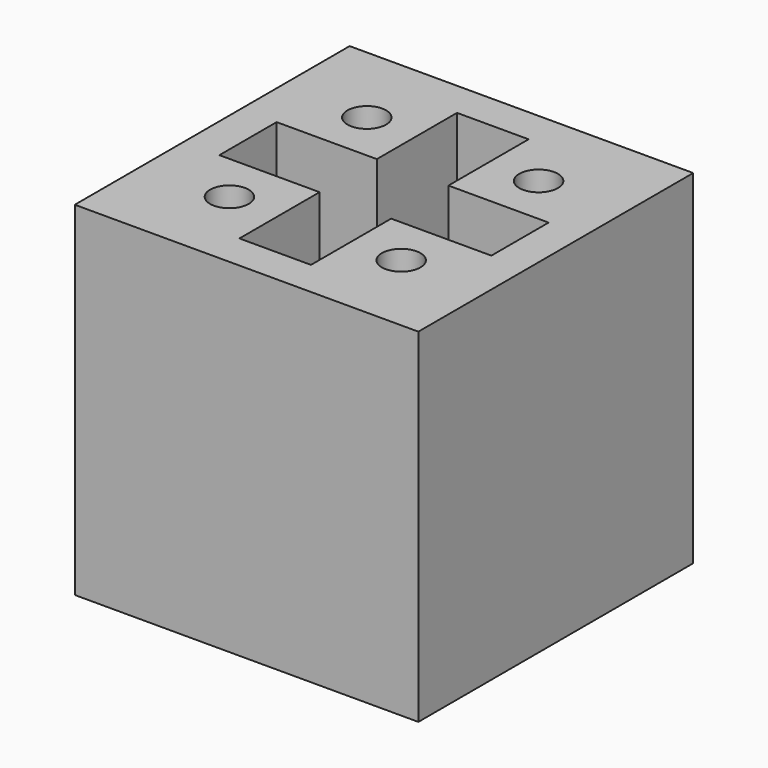
from build123d import *

# Parameters (mm, degrees)
F0_W     = 24
F0_H     = 24
F0_W_2   = 7
F0_H_2   = 7
F0_R     = 1.35
F1_DEPTH = 24
F2_T     = -2.5
F3_DEPTH = 24
F4_DEPTH = 13


with BuildPart() as f1:
    # F0 (on Top) → F1 (new body)
    with BuildSketch(Plane.XY):
        Rectangle(F0_W, F0_H)
        with Locations((-6, -6)):
            Rectangle(F0_W_2, F0_H_2, mode=Mode.SUBTRACT)
        with Locations((6, -6)):
            Rectangle(F0_W_2, F0_H_2, mode=Mode.SUBTRACT)
        with Locations((-6, 6)):
            Rectangle(F0_W_2, F0_H_2, mode=Mode.SUBTRACT)
        with Locations((6, 6)):
            Rectangle(F0_W_2, F0_H_2, mode=Mode.SUBTRACT)
        with Locations((-6, 6)):
            Rectangle(F0_W_2, F0_H_2)
        with Locations((-6, 6)):
            Circle(F0_R, mode=Mode.SUBTRACT)
        with Locations((-6, 6)):
            Circle(F0_R)
        with Locations((6, 6)):
            Rectangle(F0_W_2, F0_H_2)
        with Locations((6, 6)):
            Circle(F0_R, mode=Mode.SUBTRACT)
        with Locations((6, 6)):
            Circle(F0_R)
        with Locations((6, -6)):
            Rectangle(F0_W_2, F0_H_2)
        with Locations((6, -6)):
            Circle(F0_R, mode=Mode.SUBTRACT)
        with Locations((6, -6)):
            Circle(F0_R)
        with Locations((-6, -6)):
            Rectangle(F0_W_2, F0_H_2)
        with Locations((-6, -6)):
            Circle(F0_R, mode=Mode.SUBTRACT)
        with Locations((-6, -6)):
            Circle(F0_R)
    extrude(amount=F1_DEPTH)

    # F2
    f2_openings = [f1.faces().sort_by_distance(p)[0] for p in [
        (0, 0, 24),
    ]]
    offset(amount=F2_T, openings=f2_openings)

    # F0 (on Top) → F3 (join)
    with BuildSketch(Plane.XY):
        with Locations((-6, 6)):
            Rectangle(F0_W_2, F0_H_2)
        with Locations((-6, 6)):
            Circle(F0_R, mode=Mode.SUBTRACT)
        with Locations((-6, -6)):
            Rectangle(F0_W_2, F0_H_2)
        with Locations((-6, -6)):
            Circle(F0_R, mode=Mode.SUBTRACT)
        with Locations((6, -6)):
            Rectangle(F0_W_2, F0_H_2)
        with Locations((6, -6)):
            Circle(F0_R, mode=Mode.SUBTRACT)
        with Locations((6, 6)):
            Rectangle(F0_W_2, F0_H_2)
        with Locations((6, 6)):
            Circle(F0_R, mode=Mode.SUBTRACT)
    extrude(amount=F3_DEPTH)

    # F0 (on Top) → F4 (join)
    with BuildSketch(Plane.XY):
        with Locations((-6, 6)):
            Circle(F0_R)
        with Locations((-6, -6)):
            Circle(F0_R)
        with Locations((6, -6)):
            Circle(F0_R)
        with Locations((6, 6)):
            Circle(F0_R)
    extrude(amount=F4_DEPTH)


solid = f1.part
